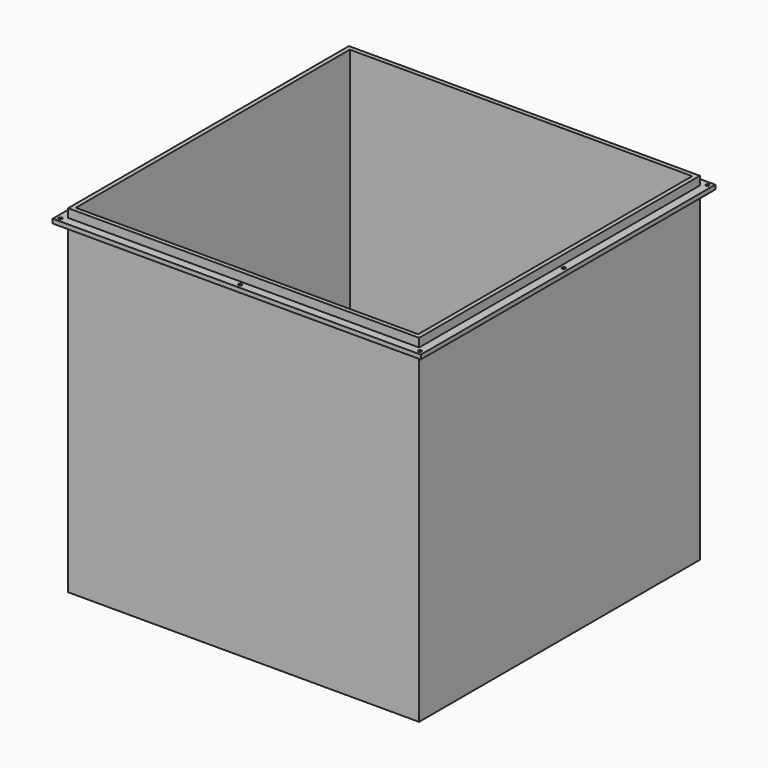
from build123d import *

# Parameters (mm, degrees)
F0_W     = 820
F0_H     = 820
F1_DEPTH = 790
F2_T     = -10
F4_W     = 860
F4_H     = 860
F4_W_2   = 820
F4_H_2   = 820
F5_DEPTH = 10
F7_D     = 8


with BuildPart() as f1:
    # F0 (on Top) → F1 (new body)
    with BuildSketch(Plane.XY):
        Rectangle(F0_W, F0_H)
    extrude(amount=F1_DEPTH)

    # F2
    f2_openings = [f1.faces().sort_by_distance(p)[0] for p in [
        (0, 0, 790),
    ]]
    offset(amount=F2_T, openings=f2_openings)

    # F4 (on offset) → F5 (join)
    with BuildSketch(Plane.XY.offset(770)):
        Rectangle(F4_W, F4_H)
        Rectangle(F4_W_2, F4_H_2, mode=Mode.SUBTRACT)
    extrude(amount=-F5_DEPTH)

    # F7 (through all)
    with Locations(Plane.XY.offset(770)):
        with Locations((0, 420), (-420, 420), (-420, 0), (-420, -420), (0, -420), (420, 0), (420, -420), (420, 420)):
            Hole(F7_D / 2)


solid = f1.part
